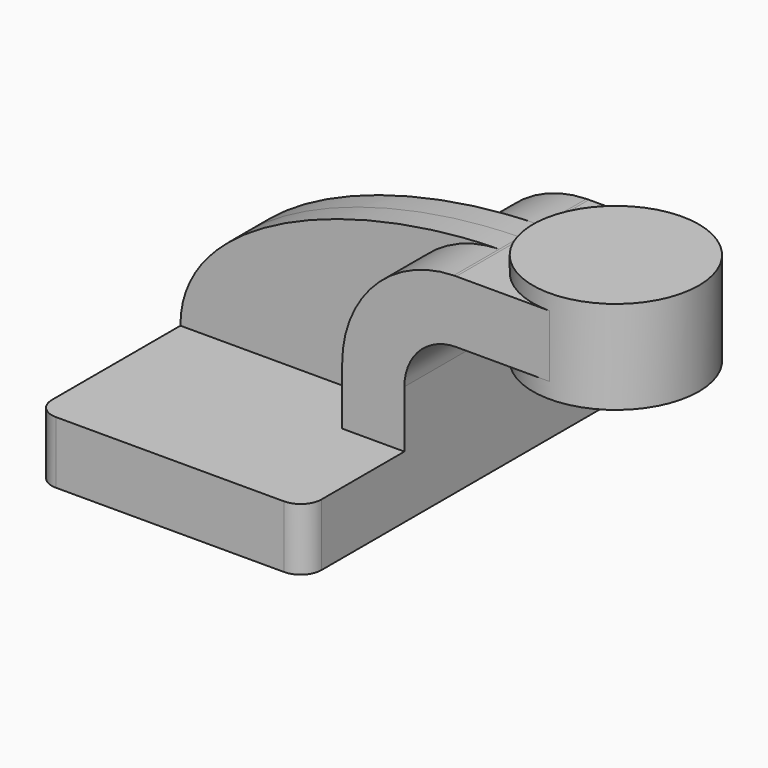
from build123d import *

# Parameters (mm, degrees)
F1_DEPTH = 63.5
F0_W     = 25.4
F0_H     = 19.05
F2_DEPTH = 25.4
F3_DEPTH = 7.9375
F5_R     = 6.35


with BuildPart() as f1:
    # F0 (on Front) → F1 (new body, symmetric)
    with BuildSketch(Plane.XZ):
        Polygon((-41.275, -9.525), (41.275, -9.525), (41.275, 9.525), (22.225, 9.525), (-41.275, 9.525), align=None)
    extrude(amount=F1_DEPTH, both=True)

    # F0 (on Front) → F2 (join, symmetric)
    with BuildSketch(Plane.XZ):
        with Locations((73.025, 52.4002)):
            Rectangle(F0_W, F0_H)
        with BuildLine():
            Line((22.225, 9.525), (41.275, 9.525))
            Line((41.275, 9.525), (41.275, 27.0002))
            ThreePointArc((41.275, 27.0002), (45.9246798487, 38.2255201513), (57.15, 42.8752))
            Line((57.15, 42.8752), (60.325, 42.8752))
            Line((60.325, 42.8752), (60.325, 61.9252))
            Line((60.325, 61.9252), (57.15, 61.9252))
            add(Edge.make_bspline(
                [(56.3862183427, 61.916847356), (56.6409939503, 61.9202327327), (56.8955911089, 61.9230174116), (57.15, 61.9252)],
                knots=[110.8904074749, 110.8904074749, 110.8904074749, 110.8904074749, 111.5045361635, 111.5045361635, 111.5045361635, 111.5045361635], degree=3))
            ThreePointArc((56.3862183427, 61.916847356), (32.1857185224, 51.4243739944), (22.225, 27.0002))
            Line((22.225, 27.0002), (22.225, 9.525))
        make_face()
    extrude(amount=F2_DEPTH, both=True)

    # F0 (on Front) → F3 (join, symmetric)
    with BuildSketch(Plane.XZ):
        with BuildLine():
            add(Edge.make_bspline(
                [(-41.275, 9.525), (-41.4392383286, 41.1092032391), (10.3825525564, 61.3055653587), (56.3862183427, 61.916847356)],
                knots=[0, 0, 0, 0, 110.8904074749, 110.8904074749, 110.8904074749, 110.8904074749], degree=3))
            Line((-41.275, 9.525), (22.225, 9.525))
            Line((22.225, 9.525), (22.225, 27.0002))
            ThreePointArc((22.225, 27.0002), (32.1857185224, 51.4243739944), (56.3862183427, 61.916847356))
        make_face()
    extrude(amount=F3_DEPTH, both=True)

    # F0 (on Front) → F4 (revolve)
    with BuildSketch(Plane.XZ):
        Polygon((85.725, 61.9252), (85.725, 42.8752), (85.725, 38.1), (111.125, 38.1), (111.125, 66.675), (85.725, 66.675), align=None)
    revolve(axis=Axis((85.725, 0, 52.3875), (0, 0, 1)))

    # F5
    f5_edges = [f1.edges().sort_by_distance(p)[0] for p in [
        (41.275, -63.5, 0),
        (-41.275, -63.5, 0),
        (41.275, 63.5, 0),
        (-41.275, 63.5, 0),
    ]]
    fillet(f5_edges, radius=F5_R)


solid = f1.part
